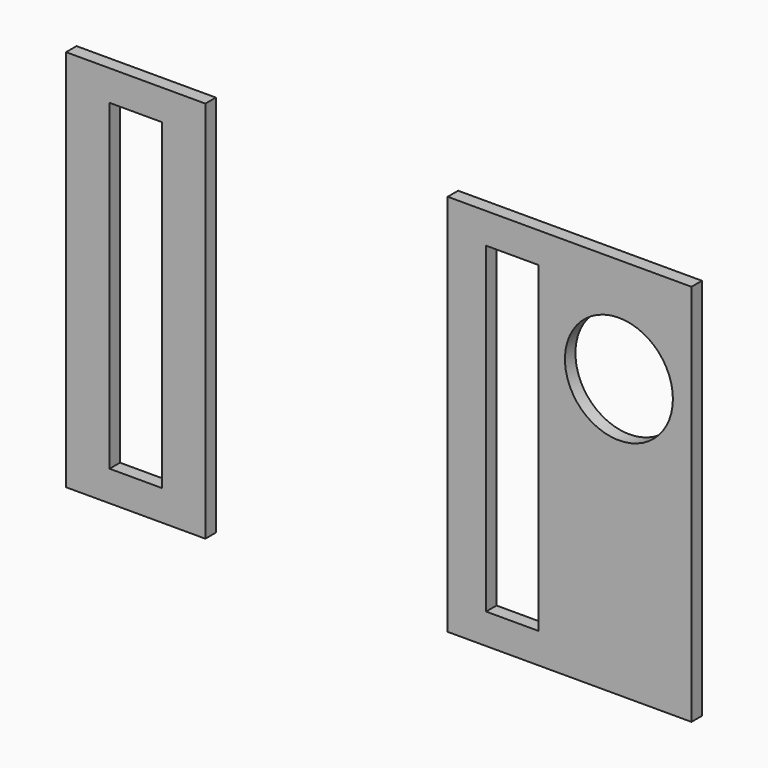
from build123d import *

# Parameters (mm, degrees)
F0_W     = 50.8
F0_H     = 139.7
F0_W_2   = 19.05
F0_H_2   = 117.475
F0_W_3   = 88.9
F0_R     = 19.685
F1_DEPTH = 4.7752


with BuildPart() as f1:
    # F0 (on Front) → F1 (new body)
    with BuildSketch(Plane.XZ):
        with Locations((-104.650039, 1.317416)):
            Rectangle(F0_W, F0_H)
        with Locations((-104.650039, 1.317416)):
            Rectangle(F0_W_2, F0_H_2, mode=Mode.SUBTRACT)
        with Locations((53.581607, 0.151088)):
            Rectangle(F0_W_3, F0_H)
        with Locations((32.652528, 0.111114)):
            Rectangle(F0_W_2, F0_H_2, mode=Mode.SUBTRACT)
        with Locations((71.568966, 31.771505)):
            Circle(F0_R, mode=Mode.SUBTRACT)
    extrude(amount=F1_DEPTH)


solid = f1.part
